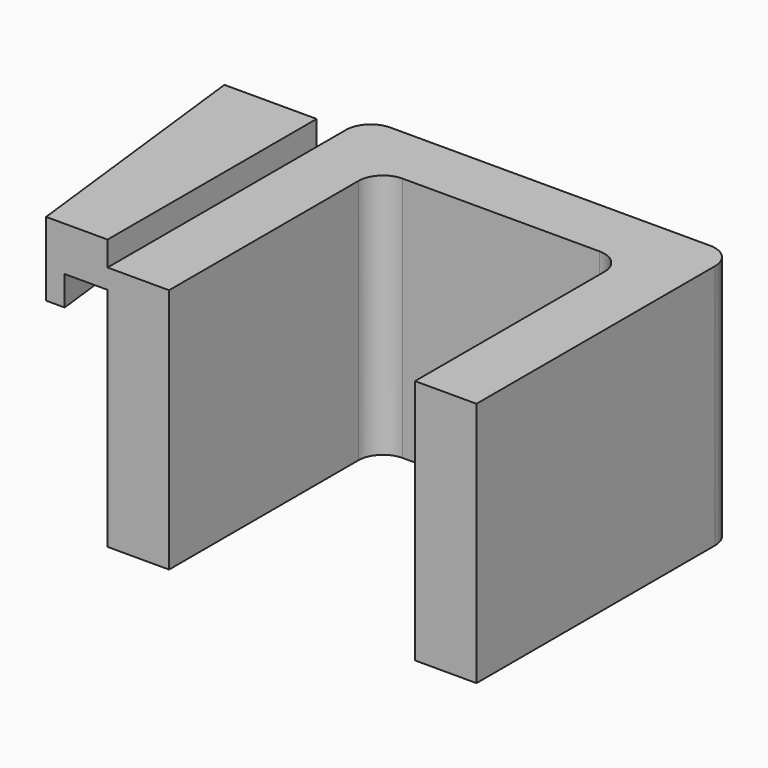
from build123d import *

# Parameters (mm, degrees)
F1_DEPTH      = 25.4
F3_DEPTH      = 5.08
F3_DEPTH_BACK = 2.54
F4_R          = 2.54
F6_DEPTH      = 3.048


with BuildPart() as f1:
    # F0 (on Top) → F1 (new body)
    with BuildSketch(Plane.XY):
        Polygon((6.35, -19.05), (31.75, -19.05), (31.75, -46.0375), (38.1, -46.0375), (38.1, -12.7), (0, -12.7), (0, -46.0375), (6.35, -46.0375), align=None)
    extrude(amount=F1_DEPTH)

    # F2 (on face) → F3 (join, two sides)
    with BuildSketch(Plane.XY.offset(25.4)) as f3_sk:
        Polygon((0, -46.0375), (0, -19.05), (-9.525, -19.05), (-6.35, -46.0375), align=None)
    extrude(amount=-F3_DEPTH)
    extrude(f3_sk.sketch, amount=F3_DEPTH_BACK)

    # F4
    f4_edges = [f1.edges().sort_by_distance(p)[0] for p in [
        (6.35, -19.05, 12.7),
        (31.75, -19.05, 12.7),
        (38.1, -12.7, 12.7),
        (0, -12.7, 12.7),
    ]]
    fillet(f4_edges, radius=F4_R)

    # F5 (on face) → F6 (cut)
    with BuildSketch(Plane(origin=(0, 0, 20.32), x_dir=(1, 0, 0), z_dir=(0, 0, -1))):
        Polygon((0, 46.0375), (-4.4318619133, 46.0375), (-7.6068619133, 19.05), (0, 19.05), align=None)
    extrude(amount=-F6_DEPTH, mode=Mode.SUBTRACT)


solid = f1.part
